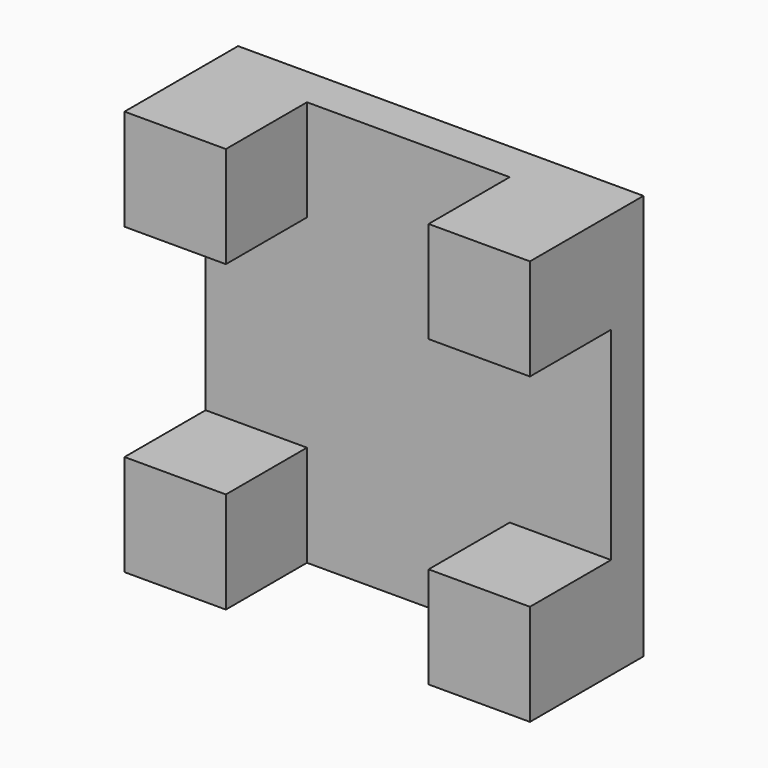
from build123d import *

# Parameters (mm, degrees)
F0_W     = 50.8
F0_H     = 50.8
F1_DEPTH = 5.08
F2_W     = 12.7
F2_H     = 12.7
F3_DEPTH = 12.7


with BuildPart() as f1:
    # F0 (on Front) → F1 (new body)
    with BuildSketch(Plane.XZ):
        with Locations((-955.480456, 97.592927)):
            Rectangle(F0_W, F0_H)
    extrude(amount=F1_DEPTH)

    # F2 (on face) → F3 (join)
    with BuildSketch(Plane.XZ.offset(5.08)):
        with Locations((-974.530456, 116.642927)):
            Rectangle(F2_W, F2_H)
        with Locations((-936.430456, 116.642927)):
            Rectangle(F2_W, F2_H)
        with Locations((-974.530456, 78.542927)):
            Rectangle(F2_W, F2_H)
        with Locations((-936.430456, 78.542927)):
            Rectangle(F2_W, F2_H)
    extrude(amount=F3_DEPTH)


solid = f1.part
